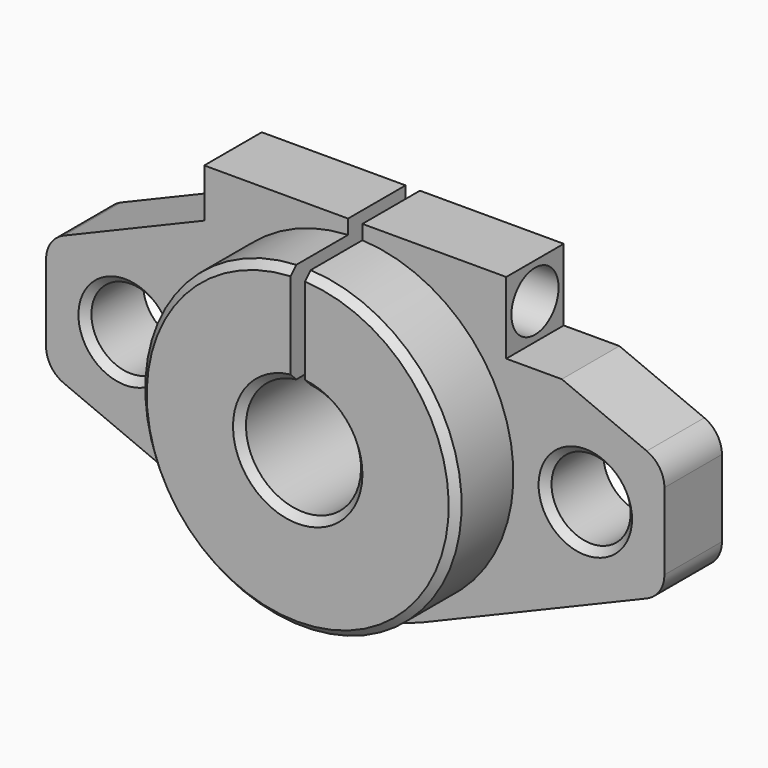
from build123d import *

# Parameters (mm, degrees)
F0_R      = 2.75
F0_R_2    = 4
F1_DEPTH  = 5
F2_R      = 11
F2_R_2    = 4
F3_DEPTH  = 5
F4_W      = 1
F4_H      = 18
F5_DEPTH  = 10.001
F6_W      = 10
F6_H      = 8.020952
F7_DEPTH  = 5
F8_W      = 5
F8_H      = 5
F9_DEPTH  = 11.001
F10_R     = 2.05
F11_DEPTH = 11
F12_SIZE  = 0.5
F13_R     = 2


with BuildPart() as f1:
    # F0 (on Front) → F1 (new body)
    with BuildSketch(Plane.XZ):
        with BuildLine():
            Line((-21.5, 4), (-21.5, -4))
            Line((-21.5, -4), (-4.638661, -11.067196))
            ThreePointArc((-4.638661, -11.067196), (0, -12), (4.638661, -11.067196))
            Line((4.638661, -11.067196), (21.5, -4))
            Line((21.5, -4), (21.5, 4))
            Line((21.5, 4), (4.638661, 11.067196))
            ThreePointArc((4.638661, 11.067196), (0, 12), (-4.638661, 11.067196))
            Line((-4.638661, 11.067196), (-21.5, 4))
        make_face()
        with Locations((-16, 0)):
            Circle(F0_R, mode=Mode.SUBTRACT)
        Circle(F0_R_2, mode=Mode.SUBTRACT)
        with Locations((16, 0)):
            Circle(F0_R, mode=Mode.SUBTRACT)
    extrude(amount=F1_DEPTH)

    # F2 (on face) → F3 (join)
    with BuildSketch(Plane.XZ.offset(5)):
        Circle(F2_R)
        Circle(F2_R_2, mode=Mode.SUBTRACT)
    extrude(amount=F3_DEPTH)

    # F4 (on face) → F5 (cut, through all)
    with BuildSketch(Plane.XZ.offset(10)):
        with Locations((0, 9)):
            Rectangle(F4_W, F4_H)
    extrude(amount=-F5_DEPTH, mode=Mode.SUBTRACT)

    # F6 (on face) → F7 (join, through all)
    with BuildSketch(Plane.XZ.offset(5)):
        with Locations((-5.5, 7.979103)):
            Rectangle(F6_W, F6_H)
        with Locations((5.5, 7.979103)):
            Rectangle(F6_W, F6_H)
    extrude(amount=-F7_DEPTH)

    # F8 (on face) → F9 (cut, through all)
    with BuildSketch(Plane.YZ.offset(10.5)):
        with Locations((-2.5, 9.489579)):
            Rectangle(F8_W, F8_H)
    extrude(amount=F9_DEPTH, mode=Mode.SUBTRACT)

    # F10 (on face) → F11 (cut, through all)
    with BuildSketch(Plane.YZ.offset(10.5)):
        with Locations((-2.5, 9.489579)):
            Circle(F10_R)
    extrude(amount=-F11_DEPTH, mode=Mode.SUBTRACT)

    # F12
    f12_edges = [f1.edges().sort_by_distance(p)[0] for p in [
        (0, 0, -4),
        (0, -10, -4),
        (0, -10, -11),
        (13.25, -5, 0),
        (-18.75, -5, 0),
    ]]
    chamfer(f12_edges, length=F12_SIZE)

    # F13
    f13_edges = [f1.edges().sort_by_distance(p)[0] for p in [
        (21.5, -2.5, -4),
        (21.5, -2.5, 4),
        (-21.5, -2.5, -4),
        (-21.5, -2.5, 4),
    ]]
    fillet(f13_edges, radius=F13_R)


solid = f1.part
